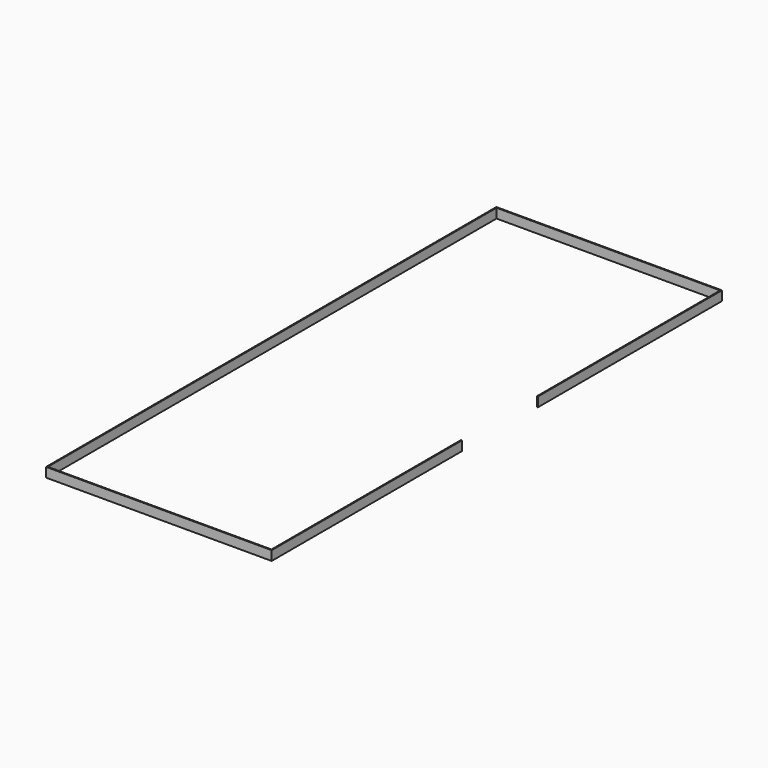
from build123d import *

# Parameters (mm, degrees)
F0_W     = 2380
F0_H     = 5938
F0_W_2   = 2360
F0_H_2   = 5918
F1_DEPTH = 100
F2_W     = 1000
F2_H     = 100
F3_DEPTH = 25


with BuildPart() as f1:
    # F0 (on Top) → F1 (new body)
    with BuildSketch(Plane.XY):
        with Locations((1190, 2969)):
            Rectangle(F0_W, F0_H)
        with Locations((1190, 2969)):
            Rectangle(F0_W_2, F0_H_2, mode=Mode.SUBTRACT)
    extrude(amount=F1_DEPTH)

    # F2 (on face) → F3 (cut)
    with BuildSketch(Plane.YZ.offset(2380)):
        with Locations((3010, 50)):
            Rectangle(F2_W, F2_H)
    extrude(amount=-F3_DEPTH, mode=Mode.SUBTRACT)


solid = f1.part
